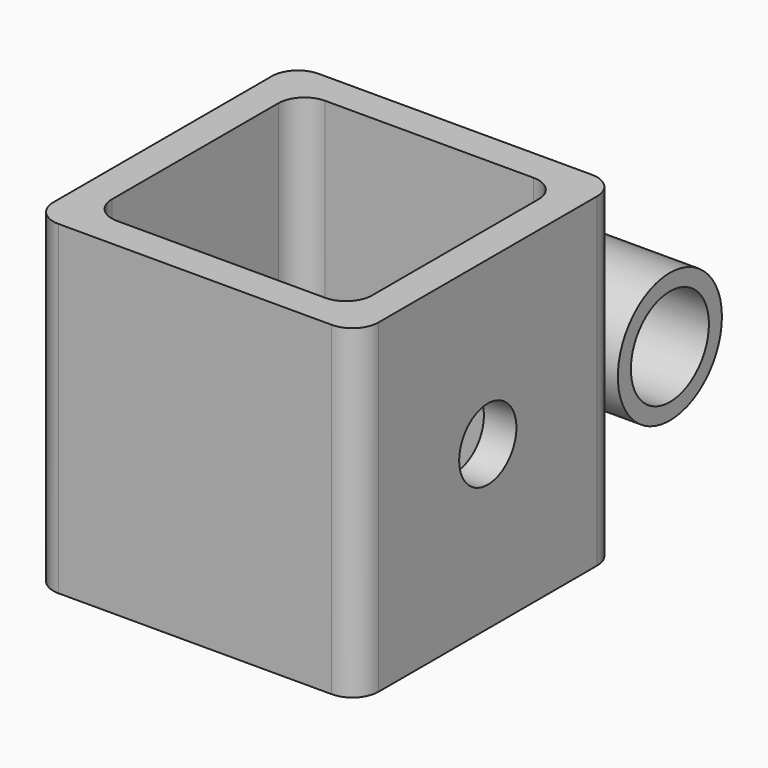
from build123d import *

# Parameters (mm, degrees)
F0_W     = 63.5
F0_H     = 63.5
F0_W_2   = 50.8
F0_H_2   = 50.8
F1_DEPTH = 63.5
F2_R     = 5.08
F3_R     = 6.985
F4_DEPTH = 63.5
F5_R     = 12.7
F5_R_2   = 9.525
F6_DEPTH = 63.5


with BuildPart() as f1:
    # F0 (on Top) → F1 (new body)
    with BuildSketch(Plane.XY):
        Rectangle(F0_W, F0_H)
        Rectangle(F0_W_2, F0_H_2, mode=Mode.SUBTRACT)
    extrude(amount=F1_DEPTH)

    # F2
    f2_edges = [f1.edges().sort_by_distance(p)[0] for p in [
        (31.75, -31.75, 31.75),
        (-31.75, -31.75, 31.75),
        (-31.75, 31.75, 31.75),
        (31.75, 31.75, 31.75),
        (25.4, -25.4, 31.75),
        (25.4, 25.4, 31.75),
        (-25.4, 25.4, 31.75),
        (-25.4, -25.4, 31.75),
    ]]
    fillet(f2_edges, radius=F2_R)

    # F3 (on face) → F4 (cut)
    with BuildSketch(Plane(origin=(-31.75, 0, 0), x_dir=(0, -1, 0), z_dir=(-1, 0, 0))):
        with Locations((0, 31.75)):
            Circle(F3_R)
    extrude(amount=-F4_DEPTH, mode=Mode.SUBTRACT)

    # F5 (on face) → F6 (join)
    with BuildSketch(Plane.YZ.offset(31.75)):
        with Locations((44.45, 30.426636)):
            Circle(F5_R)
        with Locations((44.45, 30.426636)):
            Circle(F5_R_2, mode=Mode.SUBTRACT)
    extrude(amount=-F6_DEPTH)


solid = f1.part
